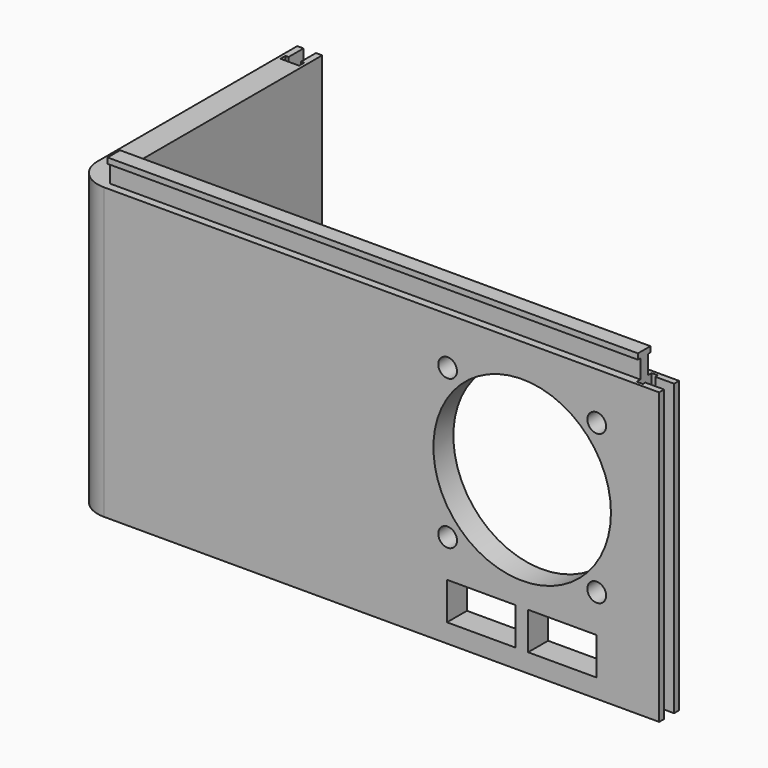
from build123d import *

# Parameters (mm, degrees)
PAD_DEPTH       = 46.5
SKETCH114_W     = 3
SKETCH114_H     = 2
SKETCH114_W_2   = 1
SKETCH114_H_2   = 3
POCKET_DEPTH    = 46.501
SKETCH116_R     = 14.23
SKETCH116_R_2   = 1.5
POCKET001_DEPTH = 5
SKETCH_W        = 2
SKETCH_H        = 35
POCKET002_DEPTH = 7
POCKET003_START = 7
SKETCH117_W     = 2
SKETCH117_H     = 3
SKETCH117_W_2   = 3
SKETCH117_H_2   = 1
POCKET003_DEPTH = 40
PAD001_START    = -4
SKETCH119_W     = 1.5
SKETCH119_H     = 3
SKETCH119_W_2   = 2.5
SKETCH119_H_2   = 0.9
PAD001_DEPTH    = 85
SKETCH118_R     = 1.25
SKETCH118_W     = 12
SKETCH118_H     = 6
POCKET004_DEPTH = 94.001
SKETCH120_W     = 11
SKETCH120_H     = 6
POCKET005_DEPTH = 5


with BuildPart() as part:
    # Sketch112 → Pad (new body)
    with BuildSketch(Plane.XY):
        with BuildLine():
            Line((0, 0), (-89, 0))
            ThreePointArc((-94, 5), (-92.535534, 1.464466), (-89, 0))
            Line((-94, 5), (-94, 45))
            Line((-94, 45), (-90, 45))
            Line((-90, 5), (-90, 45))
            ThreePointArc((-90, 5), (-89.707107, 4.292893), (-89, 4))
            Line((0, 4), (-89, 4))
            Line((0, 4), (0, 0))
        make_face()
    extrude(amount=PAD_DEPTH)

    # Sketch114 → Pocket (cut, through all)
    with BuildSketch(Plane.XY):
        with Locations((-1.5, 2)):
            Rectangle(SKETCH114_W, SKETCH114_H)
        with Locations((-3.5, 2)):
            Rectangle(SKETCH114_W_2, SKETCH114_H_2)
    extrude(amount=POCKET_DEPTH, mode=Mode.SUBTRACT)

    # Sketch116 → Pocket001 (cut)
    with BuildSketch(Plane.XZ):
        with Locations((-21.95, 27)):
            Circle(SKETCH116_R)
        with Locations((-10, 38.95)):
            Circle(SKETCH116_R_2)
        with Locations((-33.9, 38.95)):
            Circle(SKETCH116_R_2)
        with Locations((-33.9, 15.05)):
            Circle(SKETCH116_R_2)
        with Locations((-10, 15.05)):
            Circle(SKETCH116_R_2)
    extrude(amount=-POCKET001_DEPTH, mode=Mode.SUBTRACT)

    # Sketch → Pocket002 (cut)
    with BuildSketch(Plane.XY):
        with Locations((-92, 27.5)):
            Rectangle(SKETCH_W, SKETCH_H)
    extrude(amount=POCKET002_DEPTH, mode=Mode.SUBTRACT)

    # Sketch117 → Pocket003 (cut)
    with BuildSketch(Plane.XY.offset(POCKET003_START)):
        with Locations((-92, 43.5)):
            Rectangle(SKETCH117_W, SKETCH117_H)
        with Locations((-92, 41.5)):
            Rectangle(SKETCH117_W_2, SKETCH117_H_2)
    extrude(amount=POCKET003_DEPTH, mode=Mode.SUBTRACT)

    # Sketch119 → Pad001 (join)
    with BuildSketch(Plane.YZ.offset(PAD001_START)):
        with Locations((2, 48)):
            Rectangle(SKETCH119_W, SKETCH119_H)
        with Locations((2, 49.95)):
            Rectangle(SKETCH119_W_2, SKETCH119_H_2)
    extrude(amount=-PAD001_DEPTH)

    # Sketch118 → Pocket004 (cut, through all)
    with BuildSketch(Plane.YZ):
        with Locations((34, 13)):
            Circle(SKETCH118_R)
        with Locations((18, 13)):
            Circle(SKETCH118_R)
        with Locations((26, 13)):
            Rectangle(SKETCH118_W, SKETCH118_H)
    extrude(amount=-POCKET004_DEPTH, mode=Mode.SUBTRACT)

    # Sketch120 → Pocket005 (cut)
    with BuildSketch(Plane.XZ):
        with Locations((-15.5, 6)):
            Rectangle(SKETCH120_W, SKETCH120_H)
        with Locations((-28.5, 6)):
            Rectangle(SKETCH120_W, SKETCH120_H)
    extrude(amount=-POCKET005_DEPTH, mode=Mode.SUBTRACT)


solid = part.part
